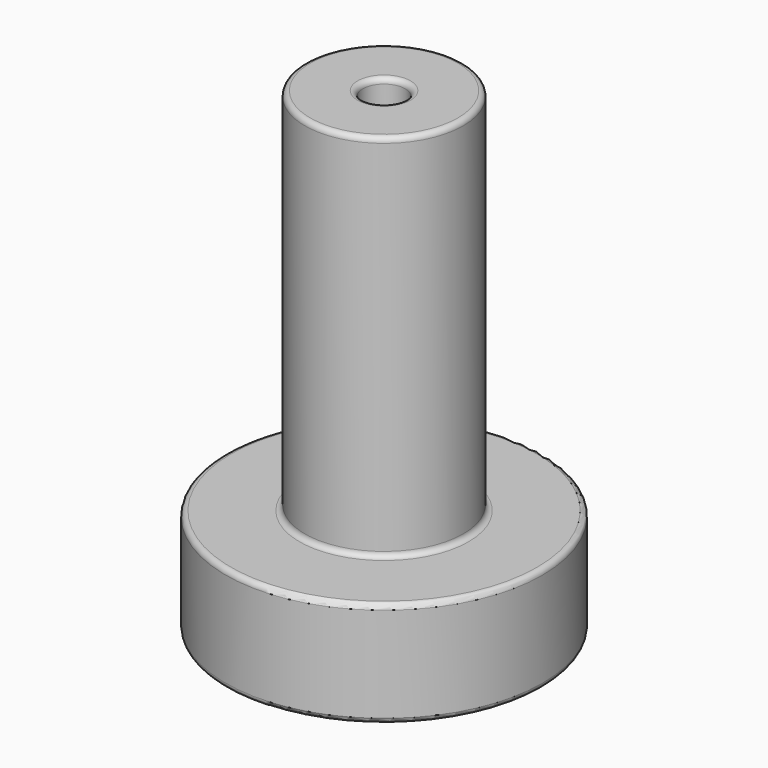
from build123d import *

# Parameters (mm, degrees)
F0_R     = 3
F1_DEPTH = 2
F2_R     = 1.5
F3_DEPTH = 7
F4_R     = 0.4
F5_DEPTH = 9.001
F6_R     = 0.1


with BuildPart() as f1:
    # F0 (on Top) → F1 (new body)
    with BuildSketch(Plane.XY):
        Circle(F0_R)
    extrude(amount=F1_DEPTH)

    # F2 (on face) → F3 (join)
    with BuildSketch(Plane.XY.offset(2)):
        Circle(F2_R)
    extrude(amount=F3_DEPTH)

    # F4 (on face) → F5 (cut, through all)
    with BuildSketch(Plane(origin=(0, 0, 0), x_dir=(1, 0, 0), z_dir=(0, 0, -1))):
        Circle(F4_R)
    extrude(amount=-F5_DEPTH, mode=Mode.SUBTRACT)

    # F6
    f6_edges = [f1.edges().sort_by_distance(p)[0] for p in [
        (-0.4, 0, 9),
        (-0.4, 0, 0),
        (-3, 0, 0),
        (-3, 0, 2),
        (-1.5, 0, 2),
        (-1.5, 0, 9),
    ]]
    fillet(f6_edges, radius=F6_R)


solid = f1.part
